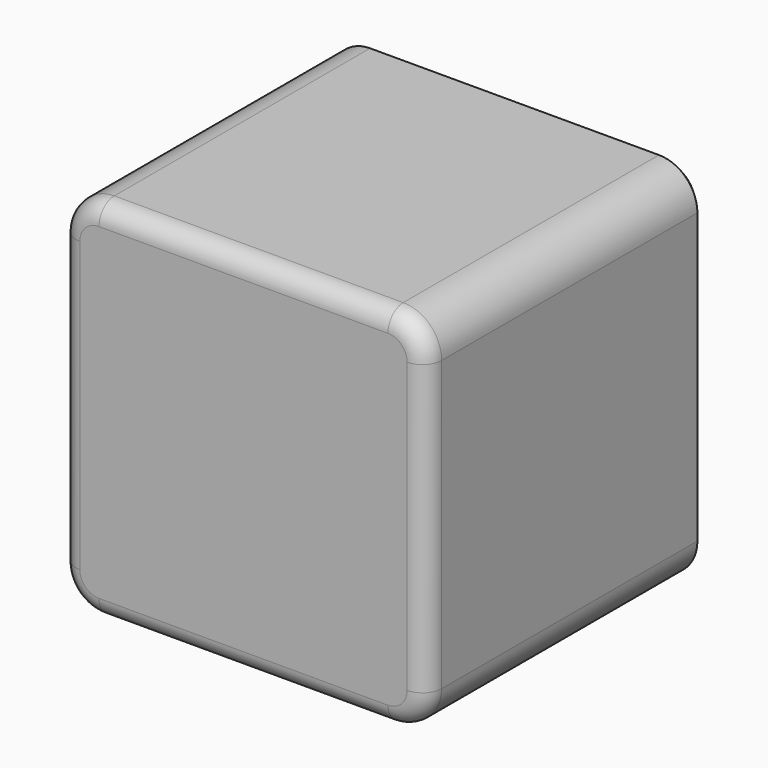
from build123d import *

# Parameters (mm, degrees)
PAD_DEPTH    = 36.3
CHAMFER_SIZE = 1
FILLET_R     = 2


with BuildPart() as part:
    # Sketch → Pad (new body)
    with BuildSketch(Plane.XZ):
        with BuildLine():
            Line((-15.05, 19.05), (15.05, 19.05))
            ThreePointArc((19.05, 15.05), (17.878427, 17.878427), (15.05, 19.05))
            Line((19.05, 15.05), (19.05, -15.05))
            ThreePointArc((15.05, -19.05), (17.878427, -17.878427), (19.05, -15.05))
            Line((15.05, -19.05), (-15.05, -19.05))
            ThreePointArc((-19.05, -15.05), (-17.878427, -17.878427), (-15.05, -19.05))
            Line((-19.05, -15.05), (-19.05, 15.05))
            ThreePointArc((-15.05, 19.05), (-17.878427, 17.878427), (-19.05, 15.05))
        make_face()
    extrude(amount=PAD_DEPTH)

    # Chamfer
    chamfer_edges = [part.edges().sort_by_distance(p)[0] for p in [
        (0, 0, 19.05),
        (17.878427, 0, 17.878427),
        (19.05, 0, 0),
        (17.878427, 0, -17.878427),
        (0, 0, -19.05),
        (-17.878427, 0, -17.878427),
        (-19.05, 0, 0),
        (-17.878427, 0, 17.878427),
    ]]
    chamfer(chamfer_edges, length=CHAMFER_SIZE)

    # Fillet
    fillet_edges = [part.edges().sort_by_distance(p)[0] for p in [
        (0, -36.3, 19.05),
        (17.878427, -36.3, 17.878427),
        (19.05, -36.3, 0),
        (17.878427, -36.3, -17.878427),
        (0, -36.3, -19.05),
        (-17.878427, -36.3, -17.878427),
        (-19.05, -36.3, 0),
        (-17.878427, -36.3, 17.878427),
    ]]
    fillet(fillet_edges, radius=FILLET_R)


solid = part.part
